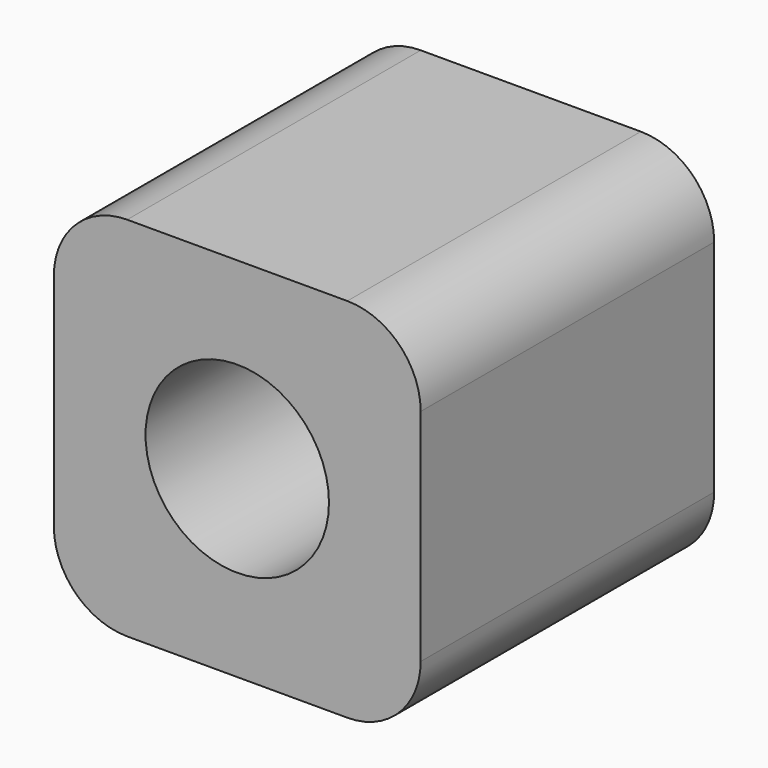
from build123d import *

# Parameters (mm, degrees)
F0_R     = 25
F1_DEPTH = 100
F2_R     = 10
F3_DEPTH = 25.4


with BuildPart() as f1:
    # F0 (on Front) → F1 (new body)
    with BuildSketch(Plane.XZ):
        with BuildLine():
            ThreePointArc((50, 30), (44.142136, 44.142136), (30, 50))
            Line((30, 50), (-30, 50))
            ThreePointArc((-30, 50), (-44.142136, 44.142136), (-50, 30))
            Line((-50, 30), (-50, -30))
            ThreePointArc((-50, -30), (-44.142136, -44.142136), (-30, -50))
            Line((-30, -50), (30, -50))
            ThreePointArc((30, -50), (44.142136, -44.142136), (50, -30))
            Line((50, -30), (50, 30))
        make_face()
        Circle(F0_R, mode=Mode.SUBTRACT)
    extrude(amount=F1_DEPTH)


with BuildPart() as f3:
    # F2 (on Right) → F3 (new body)
    with BuildSketch(Plane.YZ):
        with Locations((-50.286653, 0)):
            Circle(F2_R)
    extrude(amount=F3_DEPTH)


solid = Compound([f1.part, f3.part])
